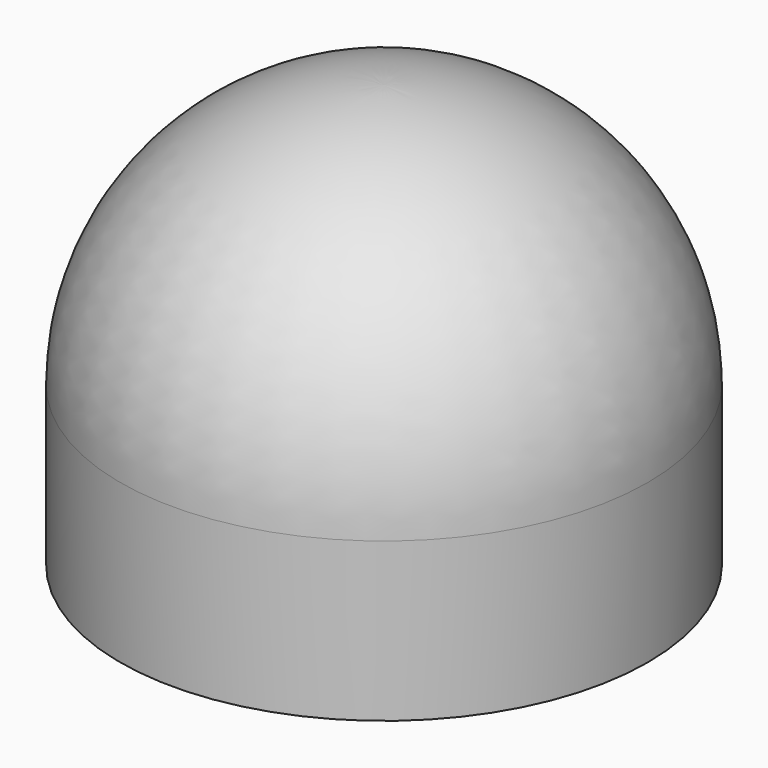
from build123d import *

# Parameters (mm, degrees)
F3_R     = 50
F4_DEPTH = 30


with BuildPart() as f2:
    # F0 (on Front) → F2 (revolve)
    with BuildSketch(Plane.XZ):
        with BuildLine():
            Line((0, 50), (0, 0))
            Line((0, 0), (50, 0))
            ThreePointArc((50, 0), (35.355339, 35.355339), (0, 50))
        make_face()
    revolve(axis=Axis((0, 0, 48.098207), (0, 0, 1)))

    # F3 (on face) → F4 (join)
    with BuildSketch(Plane(origin=(0, 0, 0), x_dir=(1, 0, 0), z_dir=(0, 0, -1))):
        Circle(F3_R)
    extrude(amount=F4_DEPTH)


solid = f2.part
